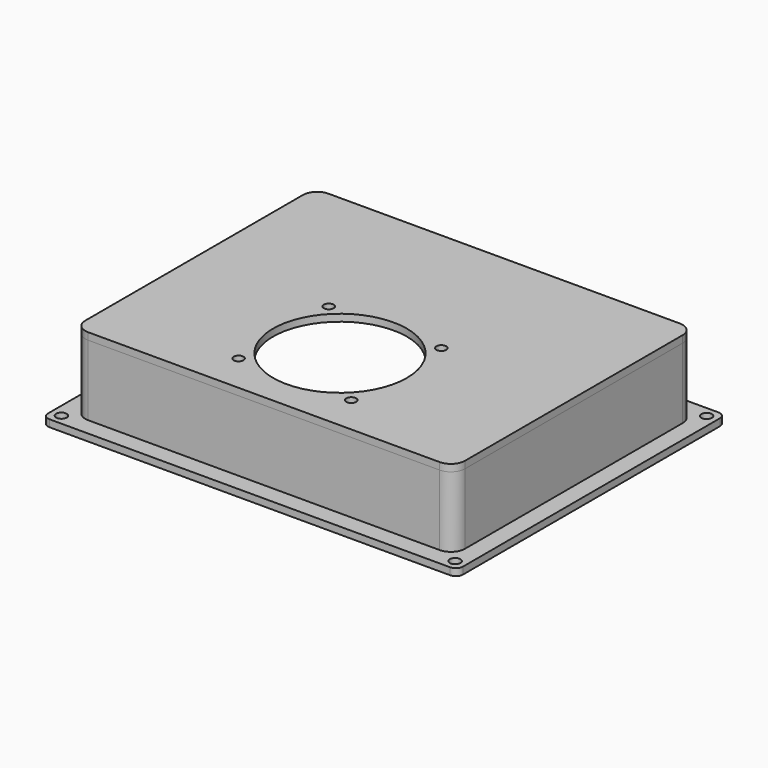
from build123d import *

# Parameters (mm, degrees)
F0_W     = 117.83
F0_H     = 95.27
F0_R     = 1.5
F0_W_2   = 103.83
F0_H_2   = 81.27
F1_DEPTH = 2
F2_W     = 107.83
F2_H     = 85.27
F2_W_2   = 103.83
F2_H_2   = 81.27
F3_DEPTH = 20
F4_R     = 2
F5_W     = 107.83
F5_H     = 85.27
F5_R     = 1.4
F5_R_2   = 19
F6_DEPTH = 2
F7_W     = 103.43
F7_H     = 80.87
F7_W_2   = 101.43
F7_H_2   = 78.87
F8_DEPTH = 1
F9_R     = 2
F9_2_R   = 2
F10_R    = 1
F11_R    = 4
F11_2_R  = 4


with BuildPart() as f1:
    # F0 (on Top) → F1 (new body)
    with BuildSketch(Plane.XY):
        Rectangle(F0_W, F0_H)
        with Locations((-55.915, -44.635)):
            Circle(F0_R, mode=Mode.SUBTRACT)
        with Locations((55.915, -44.635)):
            Circle(F0_R, mode=Mode.SUBTRACT)
        with Locations((-55.915, 44.635)):
            Circle(F0_R, mode=Mode.SUBTRACT)
        Rectangle(F0_W_2, F0_H_2, mode=Mode.SUBTRACT)
        with Locations((55.915, 44.635)):
            Circle(F0_R, mode=Mode.SUBTRACT)
    extrude(amount=F1_DEPTH)

    # F2 (on face) → F3 (join)
    with BuildSketch(Plane.XY.offset(2)):
        Rectangle(F2_W, F2_H)
        Rectangle(F2_W_2, F2_H_2, mode=Mode.SUBTRACT)
    extrude(amount=F3_DEPTH)

    # F4
    f4_edges = [f1.edges().sort_by_distance(p)[0] for p in [
        (-58.915, -47.635, 1),
        (58.915, -47.635, 1),
        (-58.915, 47.635, 1),
        (58.915, 47.635, 1),
    ]]
    fillet(f4_edges, radius=F4_R)

    # F9
    f9_edges = [f1.edges().sort_by_distance(p)[0] for p in [
        (51.915, 40.635, 11),
        (51.915, -40.635, 11),
        (-51.915, -40.635, 11),
        (-51.915, 40.635, 11),
    ]]
    fillet(f9_edges, radius=F9_R)

    # F11
    f11_edges = [f1.edges().sort_by_distance(p)[0] for p in [
        (53.915, -42.635, 12),
        (-53.915, -42.635, 12),
        (-53.915, 42.635, 12),
        (53.915, 42.635, 12),
    ]]
    fillet(f11_edges, radius=F11_R)


with BuildPart() as f6:
    # F5 (on face) → F6 (new body)
    with BuildSketch(Plane.XY.offset(22)):
        Rectangle(F5_W, F5_H)
        with Locations((-16, -31.635)):
            Circle(F5_R, mode=Mode.SUBTRACT)
        with Locations((16, -31.635)):
            Circle(F5_R, mode=Mode.SUBTRACT)
        with Locations((0, -15.635)):
            Circle(F5_R_2, mode=Mode.SUBTRACT)
        with Locations((-16, 0.365)):
            Circle(F5_R, mode=Mode.SUBTRACT)
        with Locations((16, 0.365)):
            Circle(F5_R, mode=Mode.SUBTRACT)
    extrude(amount=F6_DEPTH)

    # F7 (on face) → F8 (join)
    with BuildSketch(Plane(origin=(0, 0, 22), x_dir=(1, 0, 0), z_dir=(0, 0, -1))):
        Rectangle(F7_W, F7_H)
        Rectangle(F7_W_2, F7_H_2, mode=Mode.SUBTRACT)
    extrude(amount=F8_DEPTH)

    # F9#2
    f9_2_edges = [f6.edges().sort_by_distance(p)[0] for p in [
        (51.715, -40.435, 21.5),
        (51.715, 40.435, 21.5),
        (-51.715, 40.435, 21.5),
        (-51.715, -40.435, 21.5),
    ]]
    fillet(f9_2_edges, radius=F9_2_R)

    # F10
    f10_edges = [f6.edges().sort_by_distance(p)[0] for p in [
        (-50.715, -39.435, 21.5),
        (50.715, -39.435, 21.5),
        (-50.715, 39.435, 21.5),
        (50.715, 39.435, 21.5),
    ]]
    fillet(f10_edges, radius=F10_R)

    # F11#2
    f11_2_edges = [f6.edges().sort_by_distance(p)[0] for p in [
        (53.915, 42.635, 23),
        (-53.915, 42.635, 23),
        (-53.915, -42.635, 23),
        (53.915, -42.635, 23),
    ]]
    fillet(f11_2_edges, radius=F11_2_R)


solid = Compound([f1.part, f6.part])
